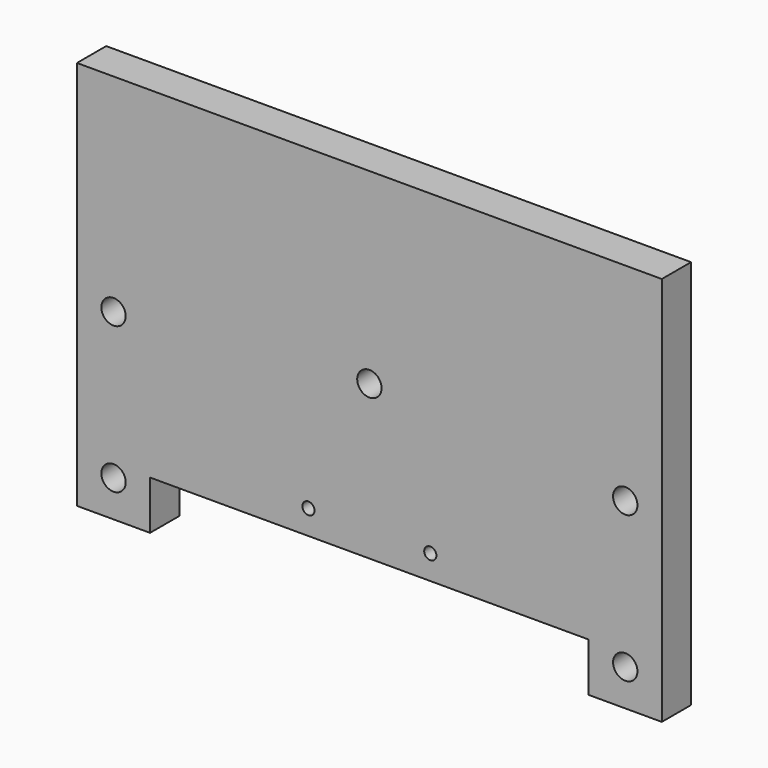
from build123d import *

# Parameters (mm, degrees)
F0_W           = 304.8
F0_H           = 203.2
F1_DEPTH       = 19.05
F2_W           = 228.6
F2_H           = 25.4
F3_DEPTH       = 19.051
F5_D           = 6.35
F7_D           = 12.7
F9_D           = 9.525
F9_CBORE_D     = 12.7
F9_CBORE_DEPTH = 12.7


with BuildPart() as f1:
    # F0 (on Front) → F1 (new body)
    with BuildSketch(Plane.XZ):
        with Locations((152.4, 101.6)):
            Rectangle(F0_W, F0_H)
    extrude(amount=F1_DEPTH)

    # F2 (on face) → F3 (cut, through all)
    with BuildSketch(Plane.XZ.offset(19.05)):
        with Locations((152.4, 12.7)):
            Rectangle(F2_W, F2_H)
    extrude(amount=-F3_DEPTH, mode=Mode.SUBTRACT)

    # F5 (through all)
    with Locations(Plane.XZ.offset(19.05)):
        with Locations((120.65, 38.1), (184.15, 38.1)):
            Hole(F5_D / 2)

    # F7 (through all)
    with Locations(Plane.XZ.offset(19.05)):
        with Locations((152.4, 105.6132)):
            Hole(F7_D / 2)

    # F9 (through all)
    with Locations(Plane.XZ.offset(19.05)):
        with Locations((19.05, 19.05), (19.05, 95.25), (285.75, 19.05), (285.75, 95.25)):
            CounterBoreHole(F9_D / 2, F9_CBORE_D / 2, F9_CBORE_DEPTH)


solid = f1.part
